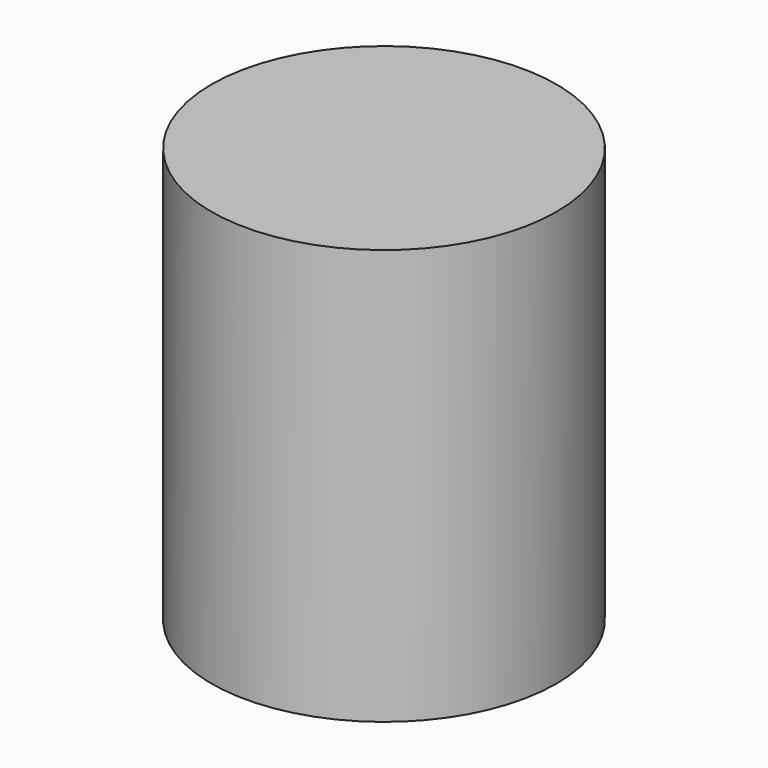
from build123d import *

# Parameters (mm, degrees)
F0_R     = 33.224875
F1_DEPTH = 80
F2_R     = 21.826808
F3_DEPTH = 80


with BuildPart() as f1:
    # F0 (on Top) → F1 (new body)
    with BuildSketch(Plane.XY):
        Circle(F0_R)
    extrude(amount=-F1_DEPTH)

    # F2 (on face) → F3 (join, through all)
    with BuildSketch(Plane.XY):
        Circle(F2_R)
    extrude(amount=-F3_DEPTH)


solid = f1.part
